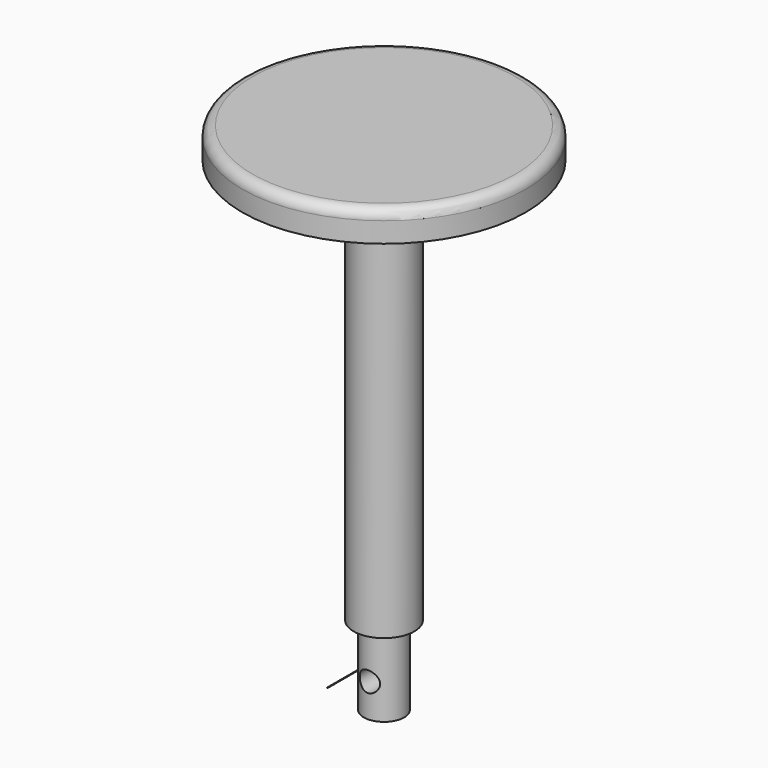
from build123d import *

# Parameters (mm, degrees)
F0_R          = 88.9
F0_R_2        = 19.05
F1_DEPTH      = 19.05
F0_R_3        = 16.51
F2_DEPTH      = 254
F2_DEPTH_BACK = 19.05
F3_R          = 6.35
F4_DEPTH      = 19.05
F4_DEPTH_BACK = 19.05
F5_R          = 12.7
F6_DEPTH      = 284.48
F7_W          = 0.254
F7_H          = 0.254
F8_DEPTH      = 55.372
F9_R          = 6.35
F10_DEPTH     = 144.273


with BuildPart() as f1:
    # F0 (on Top) → F1 (new body)
    with BuildSketch(Plane.XY):
        Circle(F0_R)
        Circle(F0_R_2, mode=Mode.SUBTRACT)
    extrude(amount=F1_DEPTH)

    # F0 (on Top) → F2 (join, two sides)
    with BuildSketch(Plane.XY) as f2_sk:
        Circle(F0_R_2)
        Circle(F0_R_3, mode=Mode.SUBTRACT)
    extrude(amount=-F2_DEPTH)
    extrude(f2_sk.sketch, amount=F2_DEPTH_BACK)

    # F3
    f3_edges = [f1.edges().sort_by_distance(p)[0] for p in [
        (-88.9, 0, 19.05),
    ]]
    fillet(f3_edges, radius=F3_R)

    # F0 (on Top) → F4 (join, two sides)
    with BuildSketch(Plane.XY) as f4_sk:
        Circle(F0_R_3)
    extrude(amount=F4_DEPTH)
    extrude(f4_sk.sketch, amount=-F4_DEPTH_BACK)

    # F5 (on face) → F6 (join)
    with BuildSketch(Plane(origin=(0, 0, -19.05), x_dir=(1, 0, 0), z_dir=(0, 0, -1))):
        Circle(F5_R)
    extrude(amount=F6_DEPTH)

    # F9 (on face) → F10 (cut, through all)
    with BuildSketch(Plane(origin=(0, 55.372, 0), x_dir=(-1, 0, 0), z_dir=(0, 1, 0))):
        with Locations((0, -282.6707644518)):
            Circle(F9_R)
    extrude(amount=-F10_DEPTH, mode=Mode.SUBTRACT)


with BuildPart() as f8:
    # F7 (on Front) → F8 (new body)
    with BuildSketch(Plane.XZ):
        with Locations((-35.542425267, -302.8955466426)):
            Rectangle(F7_W, F7_H)
    extrude(amount=-F8_DEPTH)


solid = Compound([f1.part, f8.part])
